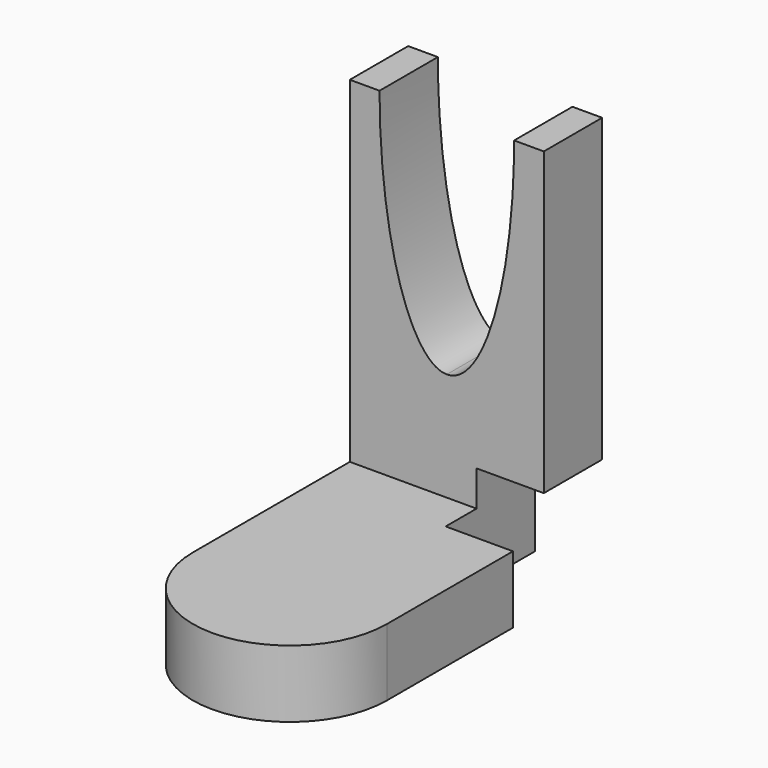
from build123d import *

# Parameters (mm, degrees)
F0_W     = 36.6222700901
F0_H     = 50.8
F1_DEPTH = 12.7
F2_W     = 36.6222700901
F2_H     = 13.7693596348
F3_DEPTH = 63.5
F5_DEPTH = 15.24
F6_W     = 21.0523925066
F6_H     = 19.398285076
F7_DEPTH = 12.7


with BuildPart() as f1:
    # F0 (on Top) → F1 (new body)
    with BuildSketch(Plane.XY):
        Rectangle(F0_W, F0_H)
        with BuildLine():
            Line((18.311135045, -25.4), (-18.311135045, -25.4))
            ThreePointArc((-18.311135045, -25.4), (0, -43.711135045), (18.311135045, -25.4))
        make_face()
    extrude(amount=F1_DEPTH)

    # F2 (on face) → F3 (join)
    with BuildSketch(Plane.XY.offset(12.7)):
        with Locations((0, 18.5153201826)):
            Rectangle(F2_W, F2_H)
    extrude(amount=F3_DEPTH)

    # F4 (on face) → F5 (cut)
    with BuildSketch(Plane.XZ.offset(-11.6306403652)):
        with BuildLine():
            add(Edge.make_bspline(
                [(0, 33.1851541996), (22.002207295, 33.1851541996), (11.0011036475, 97.7074229002), (0, 162.2296916008), (-11.0011036475, 97.7074229002), (-22.002207295, 33.1851541996), (0, 33.1851541996)],
                knots=[0, 0, 0, 2.0943951024, 2.0943951024, 4.1887902048, 4.1887902048, 6.2831853072, 6.2831853072, 6.2831853072], degree=2, weights=[1, 0.5, 1, 0.5, 1, 0.5, 1]))
        make_face()
    extrude(amount=-F5_DEPTH, mode=Mode.SUBTRACT)

    # F6 (on face) → F7 (cut)
    with BuildSketch(Plane.YZ.offset(18.311135045)):
        with Locations((14.8738037467, 9.699142538)):
            Rectangle(F6_W, F6_H)
    extrude(amount=-F7_DEPTH, mode=Mode.SUBTRACT)


solid = f1.part
